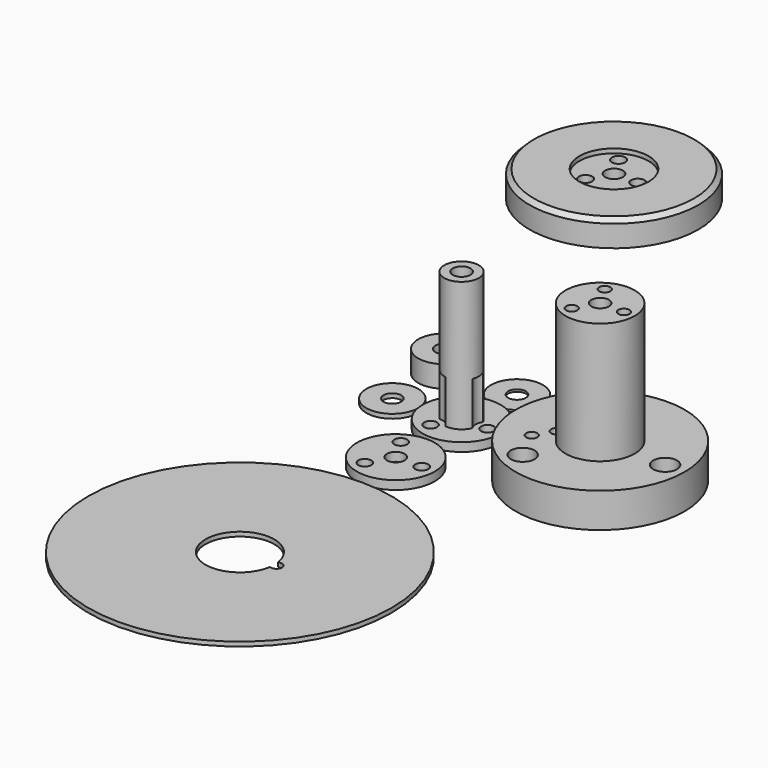
from build123d import *

# Parameters (mm, degrees)
SKETCH_R                = 19.5
SKETCH_R_2              = 1.55
SKETCH_R_3              = 2.05
SKETCH_R_4              = 1.3
SKETCH_R_5              = 1.25
PAD_DEPTH               = 8
SKETCH001_R             = 2.75
POCKET_DEPTH            = 3
SKETCH018_R             = 4
POCKET008_DEPTH         = 6
SKETCH002_R             = 8
SKETCH002_R_2           = 2.05
PAD010_DEPTH            = 28
SKETCH003_R             = 1.3
POCKET009_DEPTH         = 7
SKETCH004_R             = 19.5
SKETCH004_R_2           = 2.05
PAD002_DEPTH            = 6
SKETCH005_R             = 8
POCKET002_DEPTH         = 1
SKETCH006_R             = 1.55
POCKET003_DEPTH         = 6.001
SKETCH007_R             = 2.75
POCKET004_DEPTH         = 3
CHAMFER001_SIZE         = 1
BODY001_PLACEMENT_ANGLE = 180
SKETCH008_R             = 6
SKETCH008_R_2           = 2.05
PAD003_DEPTH            = 1
SKETCH009_R             = 6
SKETCH009_R_2           = 2.05
PAD004_DEPTH            = 0.5
SKETCH010_R             = 9
SKETCH010_R_2           = 2.05
PAD005_DEPTH            = 2
SKETCH011_R             = 1.5
POCKET005_DEPTH         = 2.001
SKETCH012_R             = 4
SKETCH012_R_2           = 2.05
PAD006_DEPTH            = 30
SKETCH013_R             = 2.75
POCKET006_DEPTH         = 10
SKETCH014_R             = 6
SKETCH014_R_2           = 2.05
PAD007_DEPTH            = 5
SKETCH015_R             = 9
SKETCH015_R_2           = 2.05
PAD008_DEPTH            = 2
SKETCH016_R             = 1.5
POCKET007_DEPTH         = 2.001
SKETCH017_R             = 35
PAD009_DEPTH            = 1


with BuildPart() as drum_top:
    # Sketch → Pad (new body)
    with BuildSketch(Plane.XY):
        Circle(SKETCH_R)
        with Locations((-7.5, -12.990381)):
            Circle(SKETCH_R_2, mode=Mode.SUBTRACT)
        with Locations((-7.5, 12.990381)):
            Circle(SKETCH_R_2, mode=Mode.SUBTRACT)
        with Locations((15, 0)):
            Circle(SKETCH_R_2, mode=Mode.SUBTRACT)
        Circle(SKETCH_R_3, mode=Mode.SUBTRACT)
        with Locations((-11, 6)):
            Circle(SKETCH_R_4, mode=Mode.SUBTRACT)
        with Locations((-11, -6)):
            Circle(SKETCH_R_4, mode=Mode.SUBTRACT)
        with Locations((-8.5, 2)):
            Circle(SKETCH_R_5, mode=Mode.SUBTRACT)
        with Locations((-8.5, -2)):
            Circle(SKETCH_R_5, mode=Mode.SUBTRACT)
    extrude(amount=PAD_DEPTH)

    # Sketch001 (on Face11 of Pad) → Pocket (cut)
    with BuildSketch(Plane.XY.offset(8)):
        with Locations((-7.5, -12.990381)):
            Circle(SKETCH001_R)
        with Locations((-7.5, 12.990381)):
            Circle(SKETCH001_R)
        with Locations((15, 0)):
            Circle(SKETCH001_R)
    extrude(amount=-POCKET_DEPTH, mode=Mode.SUBTRACT)

    # Sketch018 (on Face2 of Pocket) → Pocket008 (cut)
    with BuildSketch(Plane(origin=(0, 0, 0), x_dir=(1, 0, 0), z_dir=(0, 0, -1))):
        with Locations((-14.5, 0)):
            Circle(SKETCH018_R)
    extrude(amount=-POCKET008_DEPTH, mode=Mode.SUBTRACT)

    # Sketch002 (on Face3 of Pocket008) → Pad010 (join)
    with BuildSketch(Plane.XY.offset(8)):
        Circle(SKETCH002_R)
        Circle(SKETCH002_R_2, mode=Mode.SUBTRACT)
    extrude(amount=PAD010_DEPTH)

    # Sketch003 (on Face24 of Pad010) → Pocket009 (cut)
    with BuildSketch(Plane.XY.offset(36)):
        with Locations((-2.75, -4.76314)):
            Circle(SKETCH003_R)
        with Locations((5.5, 0)):
            Circle(SKETCH003_R)
        with Locations((-2.75, 4.76314)):
            Circle(SKETCH003_R)
    extrude(amount=-POCKET009_DEPTH, mode=Mode.SUBTRACT)


with BuildPart() as drum_top_1:
    # Body placement: moved
    add(drum_top.part.moved(Location((32, 0, 0))))


with BuildPart() as drum_bot:
    # Sketch004 → Pad002 (new body)
    with BuildSketch(Plane.XY):
        Circle(SKETCH004_R)
        Circle(SKETCH004_R_2, mode=Mode.SUBTRACT)
    extrude(amount=PAD002_DEPTH)

    # Sketch005 (on Face3 of Pad002) → Pocket002 (cut)
    with BuildSketch(Plane(origin=(0, 0, 0), x_dir=(1, 0, 0), z_dir=(0, 0, -1))):
        Circle(SKETCH005_R)
    extrude(amount=-POCKET002_DEPTH, mode=Mode.SUBTRACT)

    # Sketch006 (on Face3 of Pocket002) → Pocket003 (cut, through all)
    with BuildSketch(Plane.XY.offset(6)):
        with Locations((5.5, 0)):
            Circle(SKETCH006_R)
        with Locations((-2.75, 4.76314)):
            Circle(SKETCH006_R)
        with Locations((-2.75, -4.76314)):
            Circle(SKETCH006_R)
    extrude(amount=-POCKET003_DEPTH, mode=Mode.SUBTRACT)

    # Sketch007 (on Face3 of Pocket003) → Pocket004 (cut)
    with BuildSketch(Plane.XY.offset(6)):
        with Locations((5.5, 0)):
            Circle(SKETCH007_R)
        with Locations((-2.75, 4.76314)):
            Circle(SKETCH007_R)
        with Locations((-2.75, -4.76314)):
            Circle(SKETCH007_R)
    extrude(amount=-POCKET004_DEPTH, mode=Mode.SUBTRACT)

    # Chamfer001
    chamfer001_edges = [drum_bot.edges().sort_by_distance(p)[0] for p in [
        (-19.5, 0, 0),
    ]]
    chamfer(chamfer001_edges, length=CHAMFER001_SIZE)


with BuildPart() as drum_bot_1:
    # Body001 placement: moved
    add(drum_bot.part.moved(Location((0, 44, 35))).rotate(Axis((0, 44, 35), (1, 0, 0)), BODY001_PLACEMENT_ANGLE))


with BuildPart() as washer_1mm:
    # Sketch008 → Pad003 (new body)
    with BuildSketch(Plane.XY):
        Circle(SKETCH008_R)
        Circle(SKETCH008_R_2, mode=Mode.SUBTRACT)
    extrude(amount=PAD003_DEPTH)


with BuildPart() as washer_1mm_1:
    # Body002 placement: moved
    add(washer_1mm.part.moved(Location((-16, 0, 0))))


with BuildPart() as washer_0_5mm:
    # Sketch009 → Pad004 (new body)
    with BuildSketch(Plane.XY):
        Circle(SKETCH009_R)
        Circle(SKETCH009_R_2, mode=Mode.SUBTRACT)
    extrude(amount=PAD004_DEPTH)


with BuildPart() as washer_0_5mm_1:
    # Body003 placement: moved
    add(washer_0_5mm.part.moved(Location((0, 16, 0))))


with BuildPart() as shaft:
    # Sketch010 → Pad005 (new body)
    with BuildSketch(Plane.XY):
        Circle(SKETCH010_R)
        Circle(SKETCH010_R_2, mode=Mode.SUBTRACT)
    extrude(amount=PAD005_DEPTH)

    # Sketch011 (on Face4 of Pad005) → Pocket005 (cut, through all)
    with BuildSketch(Plane.XY.offset(2)):
        with Locations((-3, 5.196152)):
            Circle(SKETCH011_R)
        with Locations((6, 0)):
            Circle(SKETCH011_R)
        with Locations((-3, -5.196152)):
            Circle(SKETCH011_R)
    extrude(amount=-POCKET005_DEPTH, mode=Mode.SUBTRACT)

    # Sketch012 (on Face3 of Pocket005) → Pad006 (join)
    with BuildSketch(Plane.XY.offset(2)):
        Circle(SKETCH012_R)
        Circle(SKETCH012_R_2, mode=Mode.SUBTRACT)
    extrude(amount=PAD006_DEPTH)

    # Sketch013 (on Face3 of Pad006) → Pocket006 (cut)
    with BuildSketch(Plane.XY.offset(2)):
        with Locations((-3, 5.196152)):
            Circle(SKETCH013_R)
        with Locations((6, 0)):
            Circle(SKETCH013_R)
        with Locations((-3, -5.196152)):
            Circle(SKETCH013_R)
    extrude(amount=POCKET006_DEPTH, mode=Mode.SUBTRACT)


with BuildPart() as washer_5mm:
    # Sketch014 → Pad007 (new body)
    with BuildSketch(Plane.XY):
        Circle(SKETCH014_R)
        Circle(SKETCH014_R_2, mode=Mode.SUBTRACT)
    extrude(amount=PAD007_DEPTH)


with BuildPart() as washer_5mm_1:
    # Body005 placement: moved
    add(washer_5mm.part.moved(Location((-16, 15, 0))))


with BuildPart() as shaft_washer:
    # Sketch015 → Pad008 (new body)
    with BuildSketch(Plane.XY):
        Circle(SKETCH015_R)
        Circle(SKETCH015_R_2, mode=Mode.SUBTRACT)
    extrude(amount=PAD008_DEPTH)

    # Sketch016 (on Face4 of Pad008) → Pocket007 (cut, through all)
    with BuildSketch(Plane.XY.offset(2)):
        with Locations((-3, 5.196152)):
            Circle(SKETCH016_R)
        with Locations((6, 0)):
            Circle(SKETCH016_R)
        with Locations((-3, -5.196152)):
            Circle(SKETCH016_R)
    extrude(amount=-POCKET007_DEPTH, mode=Mode.SUBTRACT)


with BuildPart() as shaft_washer_1:
    # Body006 placement: moved
    add(shaft_washer.part.moved(Location((0, -19, 0))))


with BuildPart() as safety_disc:
    # Sketch017 → Pad009 (new body)
    with BuildSketch(Plane.XY):
        Circle(SKETCH017_R)
        with BuildLine():
            ThreePointArc((7.851115, 1.25), (-7.95, 0), (7.851115, -1.25))
            Line((8.5, -1.25), (7.851115, -1.25))
            ThreePointArc((8.5, -1.25), (9.75, 0), (8.5, 1.25))
            Line((8.5, 1.25), (7.851115, 1.25))
        make_face(mode=Mode.SUBTRACT)
    extrude(amount=PAD009_DEPTH)


with BuildPart() as safety_disc_1:
    # Body007 placement: moved
    add(safety_disc.part.moved(Location((0, -64, 0))))


solid = Compound([drum_top_1.part, drum_bot_1.part, washer_1mm_1.part, washer_0_5mm_1.part, shaft.part, washer_5mm_1.part, shaft_washer_1.part, safety_disc_1.part])
